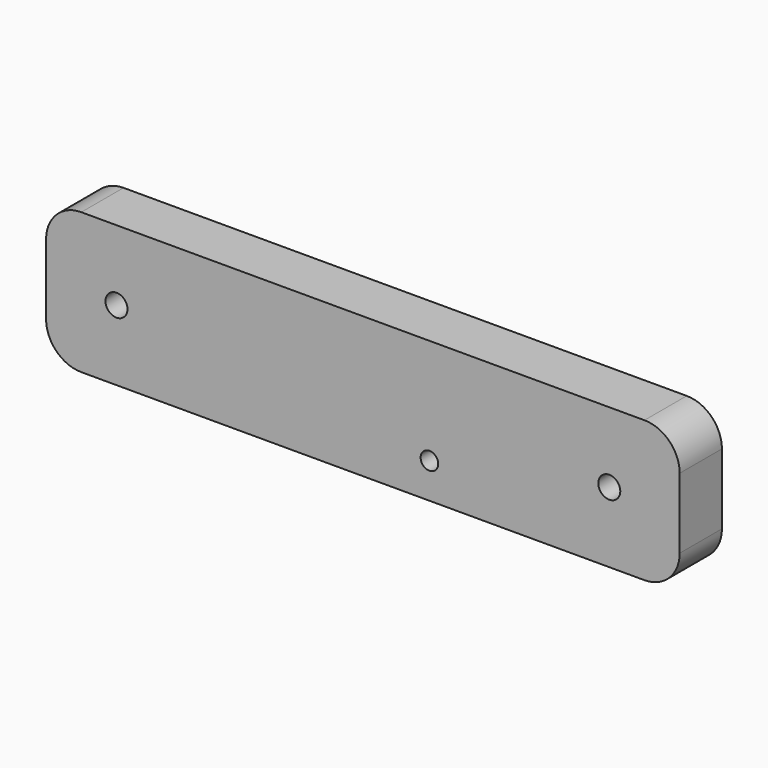
from build123d import *

# Parameters (mm, degrees)
F0_W      = 228.6
F0_H      = 50.8
F1_DEPTH  = 19.05
F2_D      = 7.9375
F3_R      = 12.7
F4_D      = 6.35
F4_DEPTH  = 12.7
F4_TIP    = 1.9077324654
F9_D      = 6.35
F10_R     = 12.7
F12_D     = 10.71626
F12_DEPTH = 12.7
F12_TIP   = 3.2194893086


with BuildPart() as f1:
    # F0 (on Front) → F1 (new body)
    with BuildSketch(Plane.XZ):
        with Locations((-114.3, 25.4)):
            Rectangle(F0_W, F0_H)
    extrude(amount=F1_DEPTH)

    # F2 (through all)
    with Locations(Plane(origin=(0, 0, 0), x_dir=(1, 0, 0), z_dir=(0, 1, 0))):
        with Locations((-203.2, -25.4), (-25.4, -25.4)):
            Hole(F2_D / 2)

    # F3
    f3_edges = [f1.edges().sort_by_distance(p)[0] for p in [
        (0, -9.525, 0),
        (0, -9.525, 50.8),
    ]]
    fillet(f3_edges, radius=F3_R)

    # F4
    with Locations(Plane(origin=(0, 0, 0), x_dir=(1, 0, 0), z_dir=(0, 1, 0))):
        with Locations((-114.3, -31.75), (-114.3, -12.7), (-63.5, -12.7), (-63.5, -31.75)):
            Hole(F4_D / 2, depth=F4_DEPTH)
            with Locations((0, 0, -(F4_DEPTH + F4_TIP / 2))):  # 118° drill point
                Cone(0, F4_D / 2, F4_TIP, mode=Mode.SUBTRACT)


with BuildPart() as f5_1:
    # F5: instance of F1
    add(f1.part.mirror(Plane(origin=(-114.9742152146, -19.05, 25.4), x_dir=(1, 0, 0), z_dir=(0, -1, 0))))


with BuildPart() as f7_1:
    # F7: instance of F5_1
    add(f5_1.part.mirror(Plane(origin=(-114.9742152146, -19.05, 25.4), x_dir=(-1, 0, 0), z_dir=(0, 1, 0))))

    # F9 (through all)
    with Locations(Plane(origin=(0, 0, 0), x_dir=(1, 0, 0), z_dir=(0, 1, 0))):
        with Locations((-90.297, -12.7)):
            Hole(F9_D / 2)

    # F10
    f10_edges = [f7_1.edges().sort_by_distance(p)[0] for p in [
        (-228.6, -9.525, 50.8),
        (-228.6, -9.525, 0),
    ]]
    fillet(f10_edges, radius=F10_R)

    # F12
    with Locations(Plane(origin=(0, 0, 0), x_dir=(1, 0, 0), z_dir=(0, 0, -1))):
        with Locations((-47.8227784872, 9.525)):
            Hole(F12_D / 2, depth=F12_DEPTH)
            with Locations((0, 0, -(F12_DEPTH + F12_TIP / 2))):  # 118° drill point
                Cone(0, F12_D / 2, F12_TIP, mode=Mode.SUBTRACT)


solid = f7_1.part
